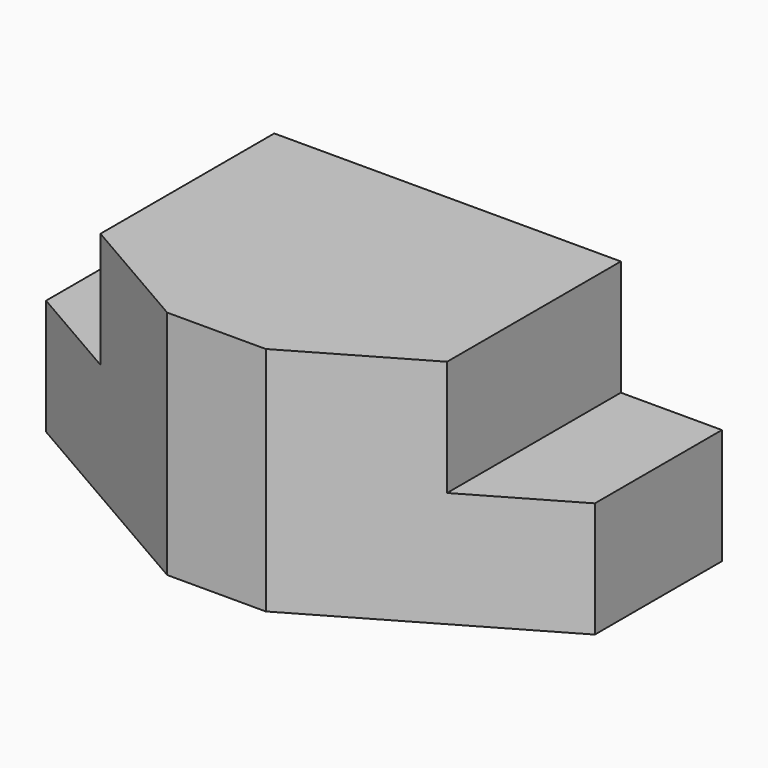
from build123d import *

# Parameters (mm, degrees)
F1_DEPTH = 50.8
F2_W     = 22.225
F2_H     = 25.4
F3_DEPTH = 44.704
F4_W     = 22.225
F4_H     = 25.4
F5_DEPTH = 37.592


with BuildPart() as f1:
    # F0 (on Top) → F1 (new body)
    with BuildSketch(Plane.XY):
        Polygon((60.325, 31.75), (-60.325, 31.75), (-60.325, -3.175), (-10.831648, -31.75), (10.831648, -31.75), (60.325, -3.175), align=None)
    extrude(amount=F1_DEPTH)

    # F2 (on Front) → F3 (cut, symmetric)
    with BuildSketch(Plane.XZ):
        with Locations((-49.2125, 38.1)):
            Rectangle(F2_W, F2_H)
    extrude(amount=F3_DEPTH, both=True, mode=Mode.SUBTRACT)

    # F4 (on Front) → F5 (cut, symmetric)
    with BuildSketch(Plane.XZ):
        with Locations((49.2125, 38.1)):
            Rectangle(F4_W, F4_H)
    extrude(amount=F5_DEPTH, both=True, mode=Mode.SUBTRACT)


solid = f1.part
